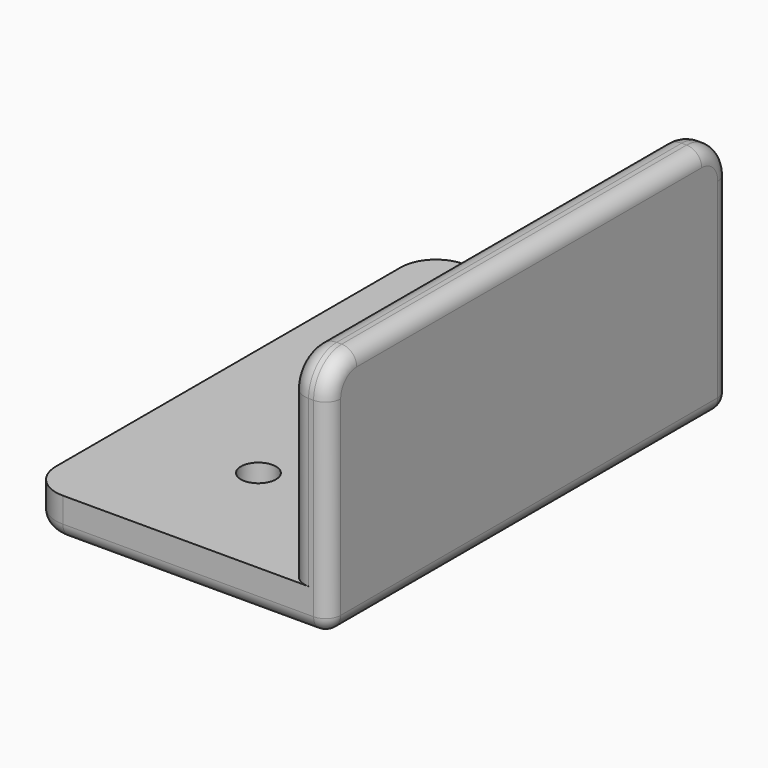
from build123d import *

# Parameters (mm, degrees)
F0_R     = 1.75
F1_DEPTH = 4
F2_DEPTH = 24
F3_R     = 3.5
F4_R     = 1.5
F5_R     = 2


with BuildPart() as f1:
    # F0 (on Top) → F1 (new body)
    with BuildSketch(Plane.XY):
        with BuildLine():
            Line((-26, 0), (0, 0))
            Line((0, 0), (0, 25))
            Line((0, 25), (-22.5, 25))
            ThreePointArc((-22.5, 25), (-24.974874, 23.974874), (-26, 21.5))
            Line((-26, 21.5), (-26, 0))
        make_face()
        with Locations((-13, 12.5)):
            Circle(F0_R, mode=Mode.SUBTRACT)
        with BuildLine():
            Line((0, -25), (0, 0))
            Line((0, 0), (-26, 0))
            Line((-26, 0), (-26, -21.5))
            ThreePointArc((-26, -21.5), (-24.974874, -23.974874), (-22.5, -25))
            Line((-22.5, -25), (0, -25))
        make_face()
        with Locations((-13, -12.5)):
            Circle(F0_R, mode=Mode.SUBTRACT)
    extrude(amount=F1_DEPTH)

    # F0 (on Top) → F2 (join)
    with BuildSketch(Plane.XY):
        Polygon((0, 25), (0, 0), (0, -25), (4, -25), (4, 25), align=None)
    extrude(amount=F2_DEPTH)

    # F3
    f3_edges = [f1.edges().sort_by_distance(p)[0] for p in [
        (2, 25, 24),
        (2, -25, 24),
    ]]
    fillet(f3_edges, radius=F3_R)

    # F4
    f4_edges = [f1.edges().sort_by_distance(p)[0] for p in [
        (-24.974874, 23.974874, 0),
        (-26, 0, 0),
        (-24.974874, -23.974874, 0),
        (-9.25, -25, 0),
        (4, 0, 0),
        (-9.25, 25, 0),
        (-14.75, 12.5, 0),
        (-14.75, -12.5, 0),
        (4, -25, 10.25),
        (4, -23.974874, 22.974874),
        (4, 0, 24),
        (4, 25, 10.25),
        (4, 23.974874, 22.974874),
    ]]
    fillet(f4_edges, radius=F4_R)

    # F5
    f5_edges = [f1.edges().sort_by_distance(p)[0] for p in [
        (0, 0, 24),
        (0, -25, 12.25),
        (0, 25, 12.25),
    ]]
    fillet(f5_edges, radius=F5_R)


solid = f1.part
